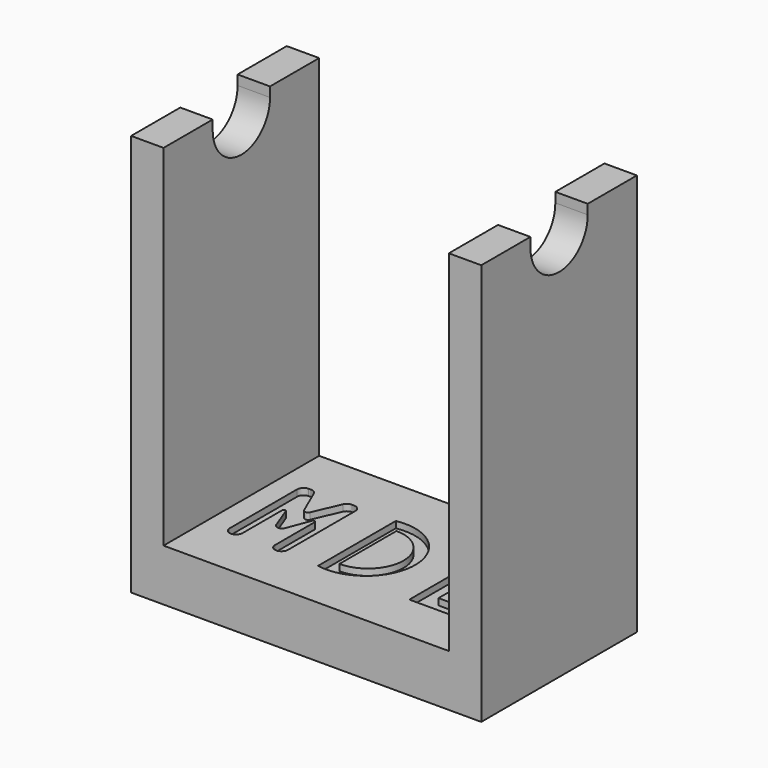
from build123d import *

# Parameters (mm, degrees)
F1_DEPTH = 30
F3_DEPTH = 100
F5_DEPTH = 2
F7_DEPTH = 2
F9_DEPTH = 2


with BuildPart() as f1:
    # F0 (on Front) → F1 (new body, symmetric)
    with BuildSketch(Plane.XZ):
        Polygon((-54, 89.197368), (-54, -34.802632), (54, -34.802632), (54, 89.197368), (44, 89.197368), (44, -18.802632), (-44, -18.802632), (-44, 89.197368), align=None)
    extrude(amount=F1_DEPTH, both=True)

    # F2 (on Right) → F3 (cut, symmetric)
    with BuildSketch(Plane.YZ):
        with BuildLine():
            Line((-11.05, 89.197368), (-11.05, 86.197368))
            ThreePointArc((-11.05, 86.197368), (0, 75.147368), (11.05, 86.197368))
            Line((11.05, 86.197368), (11.05, 89.197368))
            Line((11.05, 89.197368), (-11.05, 89.197368))
        make_face()
    extrude(amount=F3_DEPTH, both=True, mode=Mode.SUBTRACT)

    # F4 (on face) → F5 (cut)
    with BuildSketch(Plane.XY.offset(-18.802632)):
        with BuildLine():
            ThreePointArc((-35.216444, 15), (-36.630658, 14.414214), (-37.216444, 13))
            Line((-37.216444, 13), (-37.216444, -13))
            ThreePointArc((-37.216444, -13), (-36.630658, -14.414214), (-35.216444, -15))
            ThreePointArc((-35.216444, -15), (-33.80223, -14.414214), (-33.216444, -13))
            Line((-33.216444, -13), (-33.216444, 2.259175))
            ThreePointArc((-33.216444, 2.259175), (-32.806176, 2.751057), (-32.248652, 2.435726))
            Line((-32.248652, 2.435726), (-29.619821, -4.529654))
            ThreePointArc((-29.619821, -4.529654), (-28.216444, -5.5), (-26.813067, -4.529654))
            Line((-26.813067, -4.529654), (-24.184236, 2.435726))
            ThreePointArc((-24.184236, 2.435726), (-23.626711, 2.751057), (-23.216444, 2.259175))
            Line((-23.216444, 2.259175), (-23.216444, -13))
            ThreePointArc((-23.216444, -13), (-22.630658, -14.414214), (-21.216444, -15))
            ThreePointArc((-21.216444, -15), (-19.80223, -14.414214), (-19.216444, -13))
            Line((-19.216444, -13), (-19.216444, 13))
            ThreePointArc((-19.216444, 13), (-19.80223, 14.414214), (-21.216444, 15))
            Line((-21.216444, 15), (-21.904706, 15))
            ThreePointArc((-21.904706, 15), (-23.001574, 14.672388), (-23.739094, 13.796882))
            Line((-23.739094, 13.796882), (-27.29925, 5.601559))
            ThreePointArc((-27.29925, 5.601559), (-28.216444, 5), (-29.133638, 5.601559))
            Line((-29.133638, 5.601559), (-32.693794, 13.796882))
            ThreePointArc((-32.693794, 13.796882), (-33.431314, 14.672388), (-34.528182, 15))
            Line((-34.528182, 15), (-35.216444, 15))
        make_face()
    extrude(amount=-F5_DEPTH, mode=Mode.SUBTRACT)

    # F6 (on face) → F7 (cut)
    with BuildSketch(Plane.XY.offset(-18.802632)):
        with BuildLine():
            Line((-8.361575, 15), (-8.361575, -15))
            ThreePointArc((-8.361575, -15), (9.638425, 0), (-8.361575, 15))
        make_face()
        with BuildLine():
            Line((-4.961575, -11), (-4.961575, 11))
            ThreePointArc((-4.961575, 11), (6.038425, 0), (-4.961575, -11))
        make_face(mode=Mode.SUBTRACT)
    extrude(amount=-F7_DEPTH, mode=Mode.SUBTRACT)

    # F8 (on face) → F9 (cut)
    with BuildSketch(Plane.XY.offset(-18.802632)):
        Polygon((19.817374, 15), (19.817374, -15), (35.817374, -15), (35.817374, -10), (24.817374, -10), (24.817374, -2.5), (34.817374, -2.5), (34.817374, 2.5), (24.817374, 2.5), (24.817374, 10), (35.817374, 10), (35.817374, 15), align=None)
    extrude(amount=-F9_DEPTH, mode=Mode.SUBTRACT)


solid = f1.part
